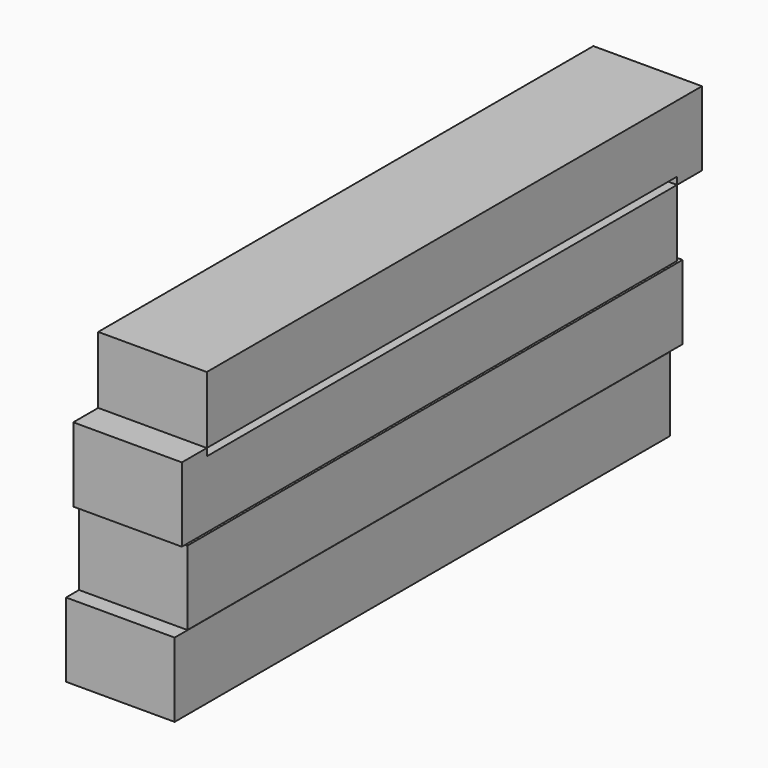
from build123d import *

# Parameters (mm, degrees)
F0_W     = 144.77472
F0_H     = 17.363298
F2_DEPTH = 25.4
F3_DEPTH = 25.4


with BuildPart() as f2:
    # F0 (on Right) → F2 (new body)
    with BuildSketch(Plane.YZ):
        with Locations((15.989079, 2.69676)):
            Rectangle(F0_W, F0_H)
    extrude(amount=F2_DEPTH)


with BuildPart() as f3:
    # F0 (on Right) → F3 (new body)
    with BuildSketch(Plane.YZ):
        with Locations((19.721532, 20.103693)):
            Rectangle(F0_W, F0_H)
        Polygon((-54.284915, 29.232027), (90.489805, 29.232027), (90.489805, 44.883223), (-46.999015, 44.883223), (-46.999015, 46.595326), (-54.284915, 46.595326), align=None)
        Polygon((90.489805, 46.595326), (90.489805, 44.883223), (97.775705, 44.883223), (97.775705, 62.246522), (-46.999015, 62.246522), (-46.999015, 46.595326), align=None)
    extrude(amount=F3_DEPTH)


solid = Compound([f2.part, f3.part])
